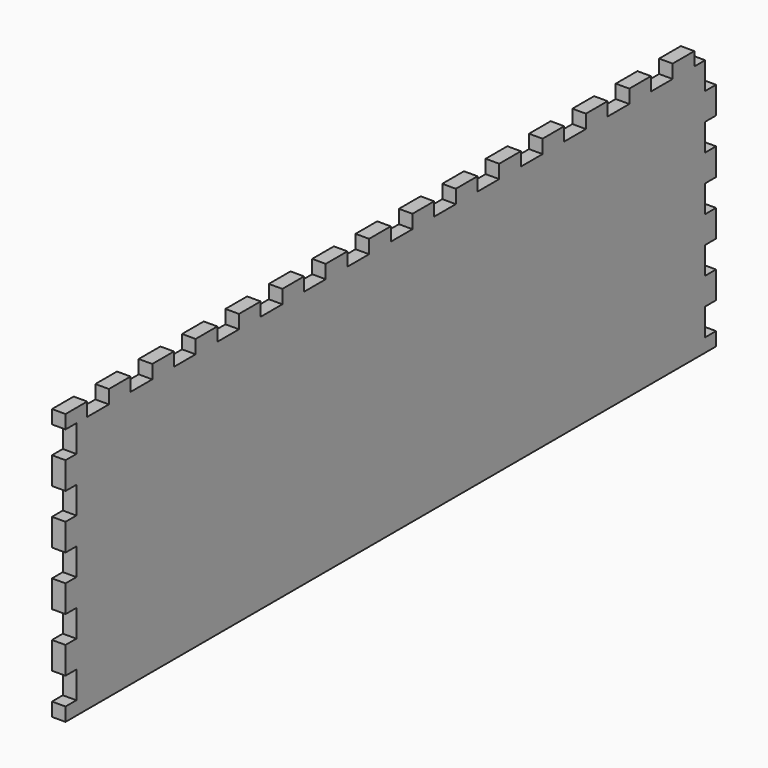
from build123d import *

# Parameters (mm, degrees)
SKETCH014_W             = 100
SKETCH014_H             = 300
PAD012_DEPTH            = 5
SKETCH037_W             = 10
SKETCH037_H             = 5
POCKET008_DEPTH         = 5
LINEARPATTERN017_COUNT  = 5
LINEARPATTERN017_PITCH  = 20
SKETCH038_W             = 10
SKETCH038_H             = 5
POCKET009_DEPTH         = 5
LINEARPATTERN018_COUNT  = 5
LINEARPATTERN018_PITCH  = 20
SKETCH039_W             = 10
SKETCH039_H             = 5
POCKET010_DEPTH         = 5
LINEARPATTERN019_COUNT  = 15
LINEARPATTERN019_PITCH  = 20
BODY012_PLACEMENT_ANGLE = 90


with BuildPart() as part:
    # Sketch014 → Pad012 (new body)
    with BuildSketch(Plane.XY):
        Rectangle(SKETCH014_W, SKETCH014_H)
    extrude(amount=PAD012_DEPTH)

    # Sketch037 (on DatumPlane) → Pocket008 (cut)
    with BuildSketch(Plane.XZ.offset(150)):
        with Locations((-40, 2.5)):
            Rectangle(SKETCH037_W, SKETCH037_H)
    pocket008 = extrude(amount=-POCKET008_DEPTH, mode=Mode.SUBTRACT)

    # LinearPattern017: Pocket008 ×5
    with Locations(*[(i * LINEARPATTERN017_PITCH, 0, 0) for i in range(1, LINEARPATTERN017_COUNT)]):
        add(pocket008, mode=Mode.SUBTRACT)

    # Sketch038 (on DatumPlane) → Pocket009 (cut)
    with BuildSketch(Plane(origin=(0, 150, 0), x_dir=(-1, 0, 0), z_dir=(0, 1, 0))):
        with Locations((-40, 2.5)):
            Rectangle(SKETCH038_W, SKETCH038_H)
    pocket009 = extrude(amount=-POCKET009_DEPTH, mode=Mode.SUBTRACT)

    # LinearPattern018: Pocket009 ×5
    with Locations(*[(-i * LINEARPATTERN018_PITCH, 0, 0) for i in range(1, LINEARPATTERN018_COUNT)]):
        add(pocket009, mode=Mode.SUBTRACT)

    # Sketch039 (on DatumPlane) → Pocket010 (cut)
    with BuildSketch(Plane.YZ.offset(50)):
        with Locations((-135, 2.5)):
            Rectangle(SKETCH039_W, SKETCH039_H)
    pocket010 = extrude(amount=-POCKET010_DEPTH, mode=Mode.SUBTRACT)

    # LinearPattern019: Pocket010 ×15
    with Locations(*[(0, i * LINEARPATTERN019_PITCH, 0) for i in range(1, LINEARPATTERN019_COUNT)]):
        add(pocket010, mode=Mode.SUBTRACT)


with BuildPart() as part_1:
    # Body012 placement: moved
    add(part.part.moved(Location((-250, 0, 155))).rotate(Axis((-250, 0, 155), (0, -1, 0)), BODY012_PLACEMENT_ANGLE))


solid = part_1.part
